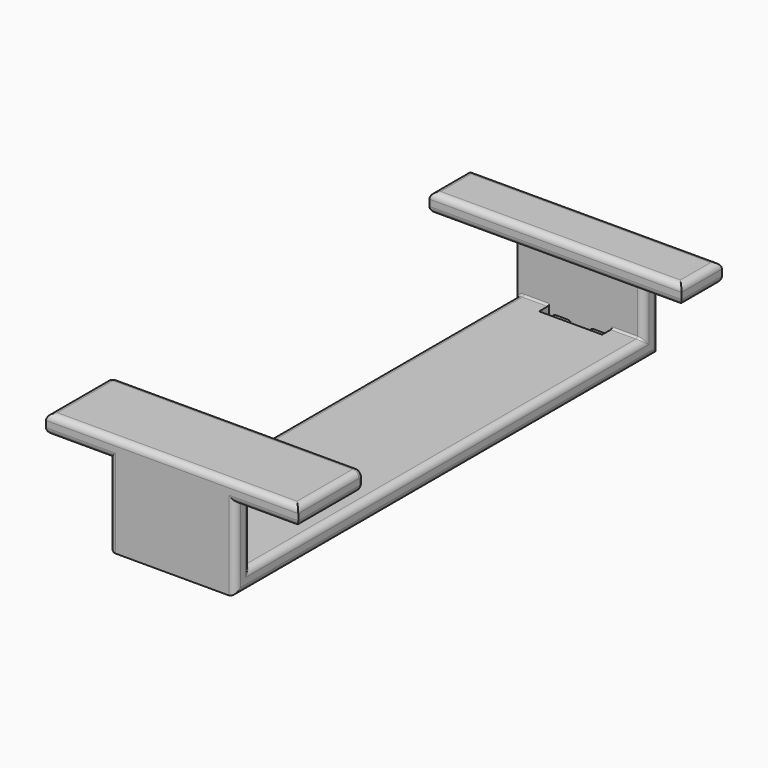
from build123d import *

# Parameters (mm, degrees)
SKETCH001_W     = 20
SKETCH001_H     = 84
PAD001_DEPTH    = 3
SKETCH002_W     = 20
SKETCH002_H     = 3
PAD002_DEPTH    = 10
SKETCH003_W     = 40
SKETCH003_H     = 8
SKETCH003_H_2   = 13
PAD003_DEPTH    = 3
FILLET_R        = 1
FILLET001_R     = 1
FILLET002_R     = 1
FILLET003_R     = 0.3
FILLET004_R     = 0.9
SKETCH009_W     = 10
SKETCH009_H     = 2
POCKET004_DEPTH = 5
POCKET005_DEPTH = 20


with BuildPart() as part:
    # Sketch001 → Pad001 (new body)
    with BuildSketch(Plane.XY):
        with Locations((0, -78.487457)):
            Rectangle(SKETCH001_W, SKETCH001_H)
    extrude(amount=PAD001_DEPTH)

    # Sketch002 → Pad002 (new body)
    with BuildSketch(Plane.XY.offset(3)):
        with Locations((0, -118.987457)):
            Rectangle(SKETCH002_W, SKETCH002_H)
        with Locations((0, -37.987457)):
            Rectangle(SKETCH002_W, SKETCH002_H)
    extrude(amount=PAD002_DEPTH)

    # Sketch003 → Pad003 (new body)
    with BuildSketch(Plane.XY.offset(13)):
        with Locations((0, -40.487457)):
            Rectangle(SKETCH003_W, SKETCH003_H)
        with Locations((0, -113.987457)):
            Rectangle(SKETCH003_W, SKETCH003_H_2)
    extrude(amount=PAD003_DEPTH)

    # Fillet
    fillet_edges = [part.edges().sort_by_distance(p)[0] for p in [
        (20, -113.987457, 16),
        (20, -113.987457, 13),
        (-20, -113.987457, 16),
        (0, -107.487457, 16),
        (0, -120.487457, 16),
        (-20, -113.987457, 13),
        (-15, -120.487457, 13),
        (15, -120.487457, 13),
    ]]
    fillet(fillet_edges, radius=FILLET_R)

    # Fillet001
    fillet001_edges = [part.edges().sort_by_distance(p)[0] for p in [
        (20, -40.487457, 16),
        (0, -44.487457, 16),
        (0, -36.487457, 16),
        (-20, -40.487457, 16),
        (-20, -40.487457, 13),
        (-15, -36.487457, 13),
        (15, -36.487457, 13),
        (20, -40.487457, 13),
        (0, -44.487457, 13),
    ]]
    fillet(fillet001_edges, radius=FILLET001_R)

    # Fillet002
    fillet002_edges = [part.edges().sort_by_distance(p)[0] for p in [
        (-10, -78.487457, 3),
        (-10, -117.487457, 8),
        (-10, -120.487457, 6.5),
        (-10, -78.487457, 0),
        (-10, -36.487457, 6.5),
        (10, -39.487457, 8),
        (10, -36.487457, 6.5),
        (10, -78.487457, 0),
        (10, -78.487457, 3),
        (10, -117.487457, 8),
        (10, -120.487457, 6.5),
    ]]
    fillet(fillet002_edges, radius=FILLET002_R)

    # Fillet003
    fillet003_edges = [part.edges().sort_by_distance(p)[0] for p in [
        (0, -39.487457, 3),
        (0, -117.487457, 3),
    ]]
    fillet(fillet003_edges, radius=FILLET003_R)

    # Fillet004
    fillet004_edges = [part.edges().sort_by_distance(p)[0] for p in [
        (0, -107.487457, 13),
    ]]
    fillet(fillet004_edges, radius=FILLET004_R)

    # Sketch009 → Pocket004 (cut)
    with BuildSketch(Plane(origin=(0, 0, 0), x_dir=(1, 0, 0), z_dir=(0, 0, -1))):
        with Locations((0, 40.487457)):
            Rectangle(SKETCH009_W, SKETCH009_H)
    extrude(amount=-POCKET004_DEPTH, mode=Mode.SUBTRACT)

    # Sketch012 → Pocket005 (cut)
    with BuildSketch(Plane(origin=(0, -36.487457, 0), x_dir=(-1, 0, 0), z_dir=(0, 1, 0))):
        with BuildLine():
            ThreePointArc((-4, 2), (-4.5, 1.5), (-4, 1))
            Line((-4, 1), (-2, 1))
            ThreePointArc((-2, 1), (-1.5, 1.5), (-2, 2))
            Line((-4, 2), (-2, 2))
        make_face()
        with BuildLine():
            ThreePointArc((2, 2), (1.5, 1.5), (2, 1))
            Line((2, 1), (4, 1))
            ThreePointArc((4, 1), (4.5, 1.5), (4, 2))
            Line((2, 2), (4, 2))
        make_face()
    extrude(amount=-POCKET005_DEPTH, mode=Mode.SUBTRACT)


solid = part.part
